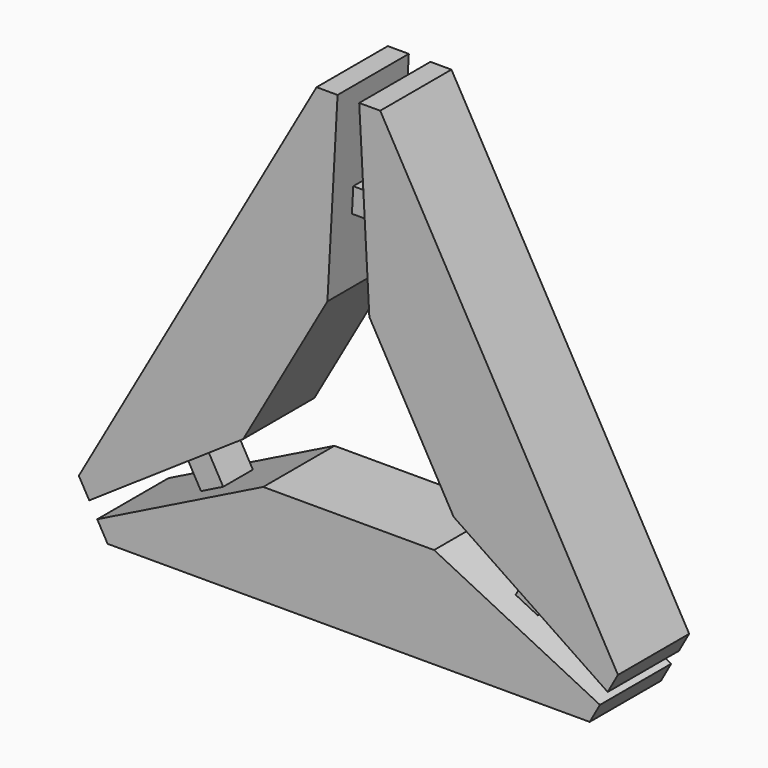
from build123d import *

# Parameters (mm, degrees)
F1_DEPTH = 3.6
F3_DEPTH = 1.5


with BuildPart() as f1:
    # F0 (on Front) → F1 (new body, symmetric)
    with BuildSketch(Plane.XZ):
        Polygon((-20.8257506798, 2.9768245619), (-8.3789686798, 11.3850395619), (-1.5652516798, 23.4041475619), (-0.7448276798, 38.3654525619), (-2.4436836798, 38.3654525619), (-21.6676586798, 4.4551755619), align=None)
    extrude(amount=F1_DEPTH, both=True)



with BuildPart() as f1b:
    # F0 (on Front) → F1, piece 2 (new body, symmetric)
    with BuildSketch(Plane.XZ):
        Polygon((1.8247563202, 23.4041475619), (8.6384733202, 11.3850395619), (21.0967113202, 2.9690845619), (21.9271633202, 4.4551755619), (2.7031873202, 38.3654525619), (1.0043313202, 38.3654525619), align=None)
    extrude(amount=F1_DEPTH, both=True)


with BuildPart() as f1c:
    # F0 (on Front) → F1, piece 3 (new body, symmetric)
    with BuildSketch(Plane.XZ):
        Polygon((7.0596503202, 8.5081085619), (-6.7564876798, 8.5081085619), (-20.1794006798, 1.8418635619), (-19.3385966798, 0.3654525619), (19.6417593202, 0.3654525619), (20.4702253202, 1.8479905619), align=None)
    extrude(amount=F1_DEPTH, both=True)


with BuildPart() as f1_1:
    add(f1.part)

    add(f1b.part)  # F3 merges F1b

    add(f1c.part)  # F3 merges F1c
    # F2 (on Front) → F3 (join, symmetric)
    with BuildSketch(Plane.XZ):
        Polygon((1.4145438202, 30.8848000619), (-1.1550396798, 30.8848000619), (-1.2647124657, 28.8848000619), (1.5242167398, 28.8848000619), align=None)
        Polygon((-12.939735993, 8.3040896316), (-14.6023596798, 7.1809320619), (-13.4679441798, 5.1749860619), (-11.6739917823, 6.0659198107), align=None)
        Polygon((11.9765909947, 6.0661994647), (13.7649378202, 5.1780495619), (14.8675923202, 7.1770620619), (13.207815063, 8.2982969193), align=None)
    extrude(amount=F3_DEPTH, both=True)


solid = f1_1.part
